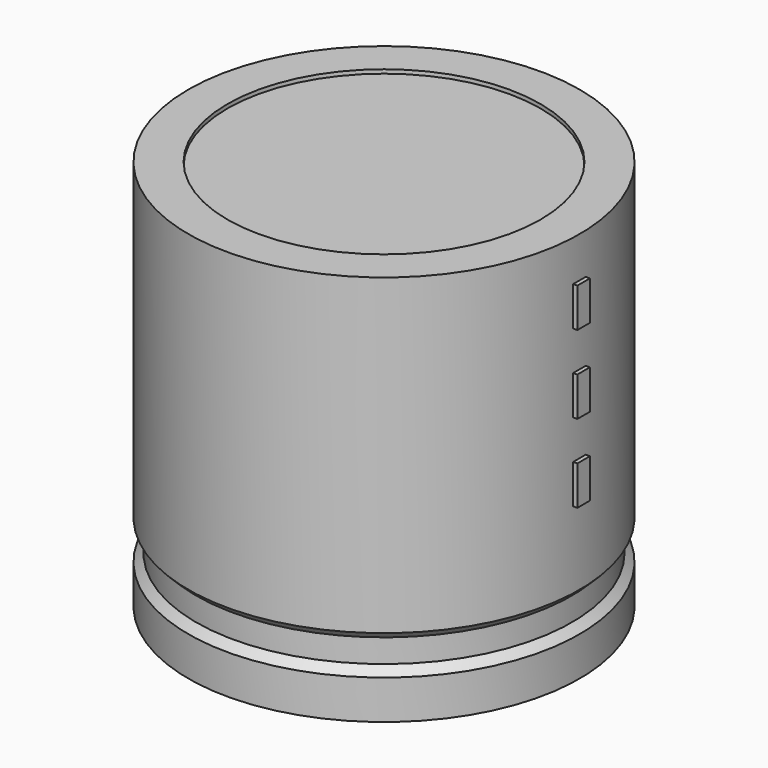
from build123d import *

# Parameters (mm, degrees)
SKETCH002_W   = 10.12
SKETCH002_H   = 21.56
SKETCH003_R   = 0.85
SKETCH003_R_2 = 1.1
PAD_DEPTH     = 5.2
SKETCH004_W   = 0.88
SKETCH004_H   = 2.2
PAD001_DEPTH  = 11.22


with BuildPart() as revolution:
    # Sketch → Revolution (revolve)
    with BuildSketch(Plane.XZ):
        Polygon((-6, 0.1), (-6, 2.3), (-5.56, 2.74), (-5.56, 4.06), (-6, 4.5), (-6, 22.1), (-3.8, 22.1), (-3.8, 0.1), align=None)
    revolve(axis=Axis((5, 0, 7.548619), (0, 0, -1)))


with BuildPart() as revolution001:
    # Sketch002 → Revolution001 (revolve)
    with BuildSketch(Plane.XZ):
        with Locations((-0.06, 11.1)):
            Rectangle(SKETCH002_W, SKETCH002_H)
    revolve(axis=Axis((5, 0, 4.680116), (0, 0, -1)))


with BuildPart() as pad:
    # Sketch003 → Pad (new body)
    with BuildSketch(Plane.XY.offset(2.2)):
        Circle(SKETCH003_R)
        with Locations((10, 0)):
            Circle(SKETCH003_R)
        with Locations((6.7, 4.75)):
            Circle(SKETCH003_R_2)
    extrude(amount=-PAD_DEPTH)


with BuildPart() as pad001:
    # Sketch004 → Pad001 (new body)
    with BuildSketch(Plane.YZ.offset(5)):
        with Locations((0, 9.9)):
            Rectangle(SKETCH004_W, SKETCH004_H)
        with Locations((0, 14.3)):
            Rectangle(SKETCH004_W, SKETCH004_H)
        with Locations((0, 18.7)):
            Rectangle(SKETCH004_W, SKETCH004_H)
    extrude(amount=PAD001_DEPTH)


solid = Compound([revolution.part, revolution001.part, pad.part, pad001.part])
